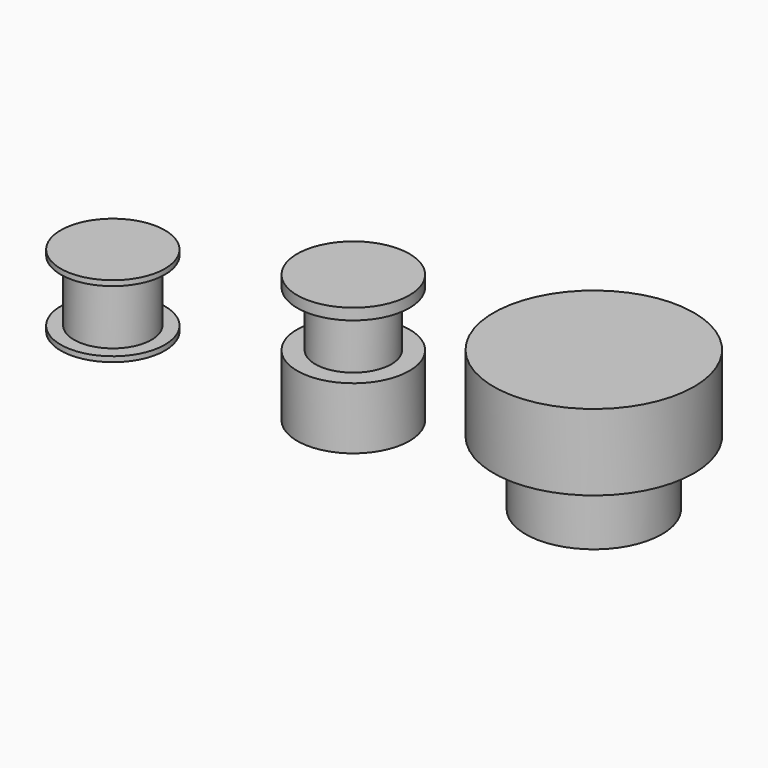
from build123d import *

# Parameters (mm, degrees)
F0_R     = 7
F1_DEPTH = 16
F2_W     = 2.25
F2_H     = 6.9
F4_R     = 8.5
F5_DEPTH = 8
F6_R     = 12.5
F6_R_2   = 8.5
F7_DEPTH = 9.5
F8_R     = 6.5
F9_DEPTH = 9
F10_W    = 1.66
F10_H    = 7.7


with BuildPart() as f1:
    # F0 (on Top) → F1 (new body)
    with BuildSketch(Plane.XY):
        Circle(F0_R)
        Circle(F0_R)
    extrude(amount=F1_DEPTH)

    # F2 (on Front) → F3 (revolve, cut)
    with BuildSketch(Plane.XZ):
        with Locations((5.875, 11.15)):
            Rectangle(F2_W, F2_H)
    revolve(axis=Axis((0, 0, 8.171172), (0, 0, 1)), mode=Mode.SUBTRACT)


with BuildPart() as f5:
    # F4 (on Top) → F5 (new body)
    with BuildSketch(Plane.XY):
        with Locations((30, 0)):
            Circle(F4_R)
    extrude(amount=F5_DEPTH)

    # F6 (on face) → F7 (join)
    with BuildSketch(Plane.XY.offset(8)):
        with Locations((30, 0)):
            Circle(F6_R)
        with Locations((30, 0)):
            Circle(F6_R_2, mode=Mode.SUBTRACT)
        with Locations((30, 0)):
            Circle(F6_R_2)
    extrude(amount=F7_DEPTH)


with BuildPart() as f9:
    # F8 (on Top) → F9 (new body)
    with BuildSketch(Plane.XY):
        with Locations((-30, 0)):
            Circle(F8_R)
    extrude(amount=F9_DEPTH)

    # F10 (on Front) → F11 (revolve, cut)
    with BuildSketch(Plane.XZ):
        with Locations((-35.67, 4.5)):
            Rectangle(F10_W, F10_H)
    revolve(axis=Axis((-30, 0, 3.813123), (0, 0, 1)), mode=Mode.SUBTRACT)


solid = Compound([f1.part, f5.part, f9.part])
